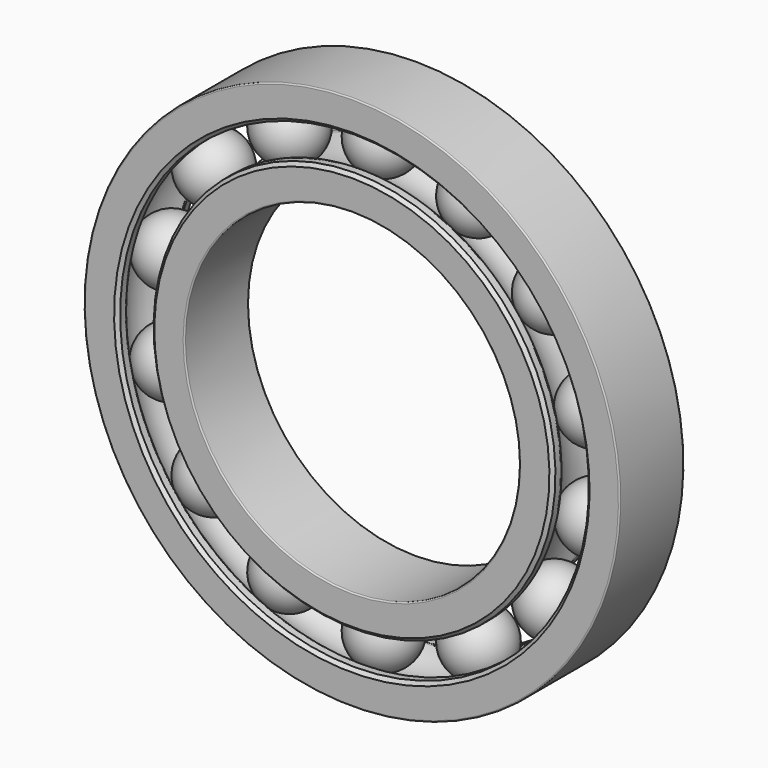
from build123d import *

# Parameters (mm, degrees)
F2_R     = 0.2
F3_SIZE  = 0.5
F6_COUNT = 14


with BuildPart() as f1:
    # F0 (on Right) → F1 (revolve)
    with BuildSketch(Plane.YZ):
        with BuildLine():
            Line((6, 40), (-6, 40))
            Line((-6, 40), (-6, 35))
            Line((-6, 35), (-4.330127, 35))
            ThreePointArc((-4.330127, 35), (0, 37.5), (4.330127, 35))
            Line((4.330127, 35), (6, 35))
            Line((6, 35), (6, 40))
        make_face()
        with BuildLine():
            Line((-6, 30), (-6, 25))
            Line((-6, 25), (6, 25))
            Line((6, 25), (6, 30))
            Line((6, 30), (4.330127, 30))
            ThreePointArc((4.330127, 30), (0, 27.5), (-4.330127, 30))
            Line((-4.330127, 30), (-6, 30))
        make_face()
    revolve(axis=Axis((0, 31.82606, 0), (0, 1, 0)))

    # F2
    f2_edges = [f1.edges().sort_by_distance(p)[0] for p in [
        (0, 6, -40),
        (0, -6, -40),
        (0, 0, 40),
        (0, -6, -25),
        (0, 6, -25),
        (0, 0, 25),
        (0, -4.330127, -35),
        (0, 4.330127, -35),
        (0, 0, 37.5),
        (0, 4.330127, -30),
        (0, -4.330127, -30),
        (0, 0, 27.5),
    ]]
    fillet(f2_edges, radius=F2_R)

    # F3
    f3_edges = [f1.edges().sort_by_distance(p)[0] for p in [
        (0, 6, -35),
        (0, 6, -30),
        (0, -6, -30),
        (0, -6, -35),
    ]]
    chamfer(f3_edges, length=F3_SIZE)


with BuildPart() as f5:
    # F4 (on Right) → F5 (revolve)
    with BuildSketch(Plane.YZ):
        with BuildLine():
            Line((0, 37.45), (0, 27.55))
            ThreePointArc((0, 27.55), (4.95, 32.5), (0, 37.45))
        make_face()
    revolve(axis=Axis((0, 0, 32.5), (0, 0, -1)))


with BuildPart() as f6_1:
    # F6: instance of F5
    add(f5.part.rotate(Axis((0, -6, 0), (0, 1, 0)), 1 * 360 / F6_COUNT))


with BuildPart() as f6_2:
    # F6: instance of F5
    add(f5.part.rotate(Axis((0, -6, 0), (0, 1, 0)), 2 * 360 / F6_COUNT))


with BuildPart() as f6_3:
    # F6: instance of F5
    add(f5.part.rotate(Axis((0, -6, 0), (0, 1, 0)), 3 * 360 / F6_COUNT))


with BuildPart() as f6_4:
    # F6: instance of F5
    add(f5.part.rotate(Axis((0, -6, 0), (0, 1, 0)), 4 * 360 / F6_COUNT))


with BuildPart() as f6_5:
    # F6: instance of F5
    add(f5.part.rotate(Axis((0, -6, 0), (0, 1, 0)), 5 * 360 / F6_COUNT))


with BuildPart() as f6_6:
    # F6: instance of F5
    add(f5.part.rotate(Axis((0, -6, 0), (0, 1, 0)), 6 * 360 / F6_COUNT))


with BuildPart() as f6_7:
    # F6: instance of F5
    add(f5.part.rotate(Axis((0, -6, 0), (0, 1, 0)), 7 * 360 / F6_COUNT))


with BuildPart() as f6_8:
    # F6: instance of F5
    add(f5.part.rotate(Axis((0, -6, 0), (0, 1, 0)), 8 * 360 / F6_COUNT))


with BuildPart() as f6_9:
    # F6: instance of F5
    add(f5.part.rotate(Axis((0, -6, 0), (0, 1, 0)), 9 * 360 / F6_COUNT))


with BuildPart() as f6_10:
    # F6: instance of F5
    add(f5.part.rotate(Axis((0, -6, 0), (0, 1, 0)), 10 * 360 / F6_COUNT))


with BuildPart() as f6_11:
    # F6: instance of F5
    add(f5.part.rotate(Axis((0, -6, 0), (0, 1, 0)), 11 * 360 / F6_COUNT))


with BuildPart() as f6_12:
    # F6: instance of F5
    add(f5.part.rotate(Axis((0, -6, 0), (0, 1, 0)), 12 * 360 / F6_COUNT))


with BuildPart() as f6_13:
    # F6: instance of F5
    add(f5.part.rotate(Axis((0, -6, 0), (0, 1, 0)), 13 * 360 / F6_COUNT))


solid = Compound([f1.part, f5.part, f6_1.part, f6_2.part, f6_3.part, f6_4.part, f6_5.part, f6_6.part, f6_7.part, f6_8.part, f6_9.part, f6_10.part, f6_11.part, f6_12.part, f6_13.part])
